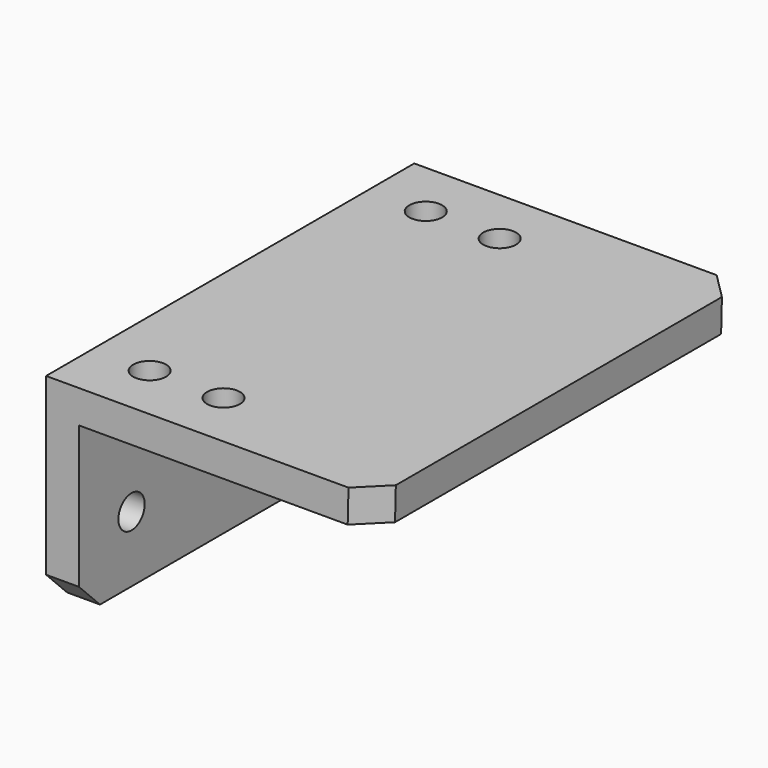
from build123d import *

# Parameters (mm, degrees)
F1_DEPTH = 88.9
F3_D     = 6.35
F4_SIZE  = 5.08
F6_D     = 6.35


with BuildPart() as f1:
    # F0 (on Front) → F1 (new body)
    with BuildSketch(Plane.XZ):
        Polygon((0, 38.8874), (0, 0), (6.35, 0), (6.35, 32.539288), (63.345166, 32.539288), (63.5, 38.8874), align=None)
    extrude(amount=F1_DEPTH)

    # F3 (through all)
    with Locations(Plane.YZ.offset(6.35)):
        with Locations((-76.2, 12.7), (-12.7, 12.7)):
            Hole(F3_D / 2)

    # F4
    f4_edges = [f1.edges().sort_by_distance(p)[0] for p in [
        (63.422583, 0, 35.713344),
        (63.422583, -88.9, 35.713344),
        (3.175, 0, 0),
        (3.175, -88.9, 0),
    ]]
    chamfer(f4_edges, length=F4_SIZE)

    # F6 (through all)
    with Locations(Plane.XY.offset(38.8874)):
        with Locations((11.1252, -11.1252), (25.4, -11.1252), (25.4, -77.8002), (11.1252, -77.8002)):
            Hole(F6_D / 2)


solid = f1.part
